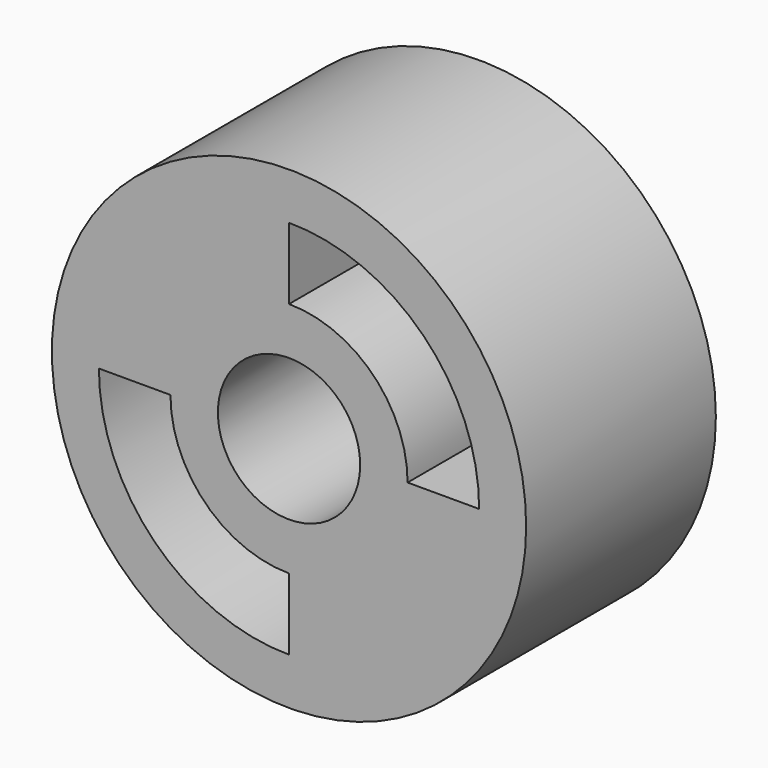
from build123d import *

# Parameters (mm, degrees)
F0_R     = 5
F0_R_2   = 1.5
F1_DEPTH = 5


with BuildPart() as f1:
    # F0 (on Front) → F1 (new body)
    with BuildSketch(Plane.XZ):
        with Locations((7.039107, 1.613129)):
            Circle(F0_R)
        with BuildLine():
            Line((3.030027, 1.613129), (4.539107, 1.613129))
            ThreePointArc((4.539107, 1.613129), (5.27134, -0.154638), (7.039107, -0.886871))
            Line((7.039107, -0.886871), (7.039107, -2.395951))
            ThreePointArc((7.039107, -2.395951), (4.204259, -1.221719), (3.030027, 1.613129))
        make_face(mode=Mode.SUBTRACT)
        with Locations((7.039107, 1.613129)):
            Circle(F0_R_2, mode=Mode.SUBTRACT)
        with BuildLine():
            ThreePointArc((9.539107, 1.613129), (8.806874, 3.380896), (7.039107, 4.113129))
            Line((7.039107, 4.113129), (7.039107, 5.622208))
            ThreePointArc((7.039107, 5.622208), (9.873954, 4.447976), (11.048187, 1.613129))
            Line((11.048187, 1.613129), (9.539107, 1.613129))
        make_face(mode=Mode.SUBTRACT)
    extrude(amount=F1_DEPTH)


solid = f1.part
